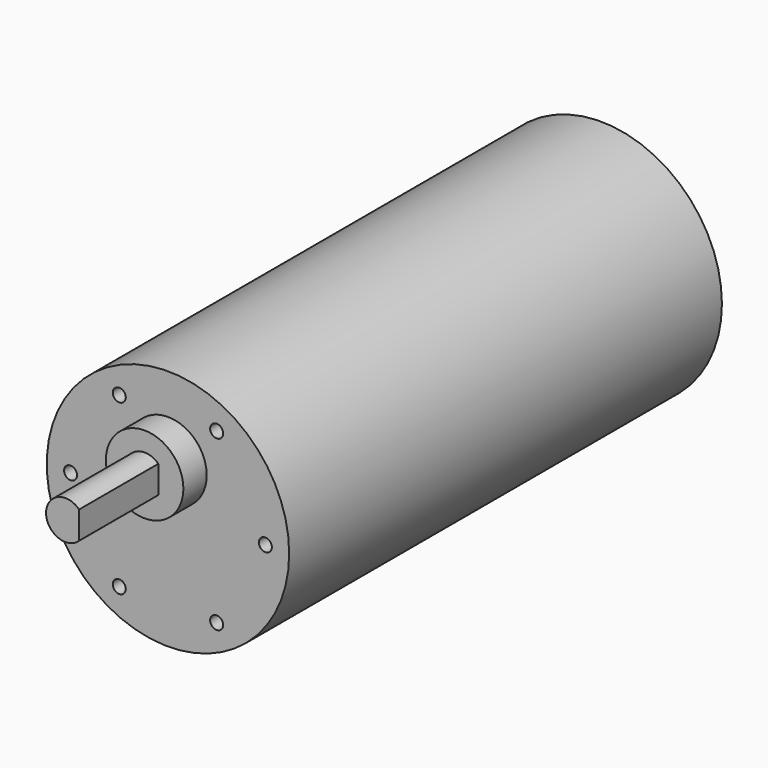
from build123d import *

# Parameters (mm, degrees)
F0_R     = 18.669
F0_R_2   = 14.9987
F0_R_3   = 5.969
F1_DEPTH = 83.312
F2_D     = 2
F2_DEPTH = 12.7
F2_TIP   = 0.600860619
F3_DEPTH = 4.4958
F5_DEPTH = 15.24


with BuildPart() as f1:
    # F0 (on Front) → F1 (new body)
    with BuildSketch(Plane.XZ):
        Circle(F0_R)
        Circle(F0_R_2, mode=Mode.SUBTRACT)
        Circle(F0_R_2)
        with Locations((0, 6.5024)):
            Circle(F0_R_3, mode=Mode.SUBTRACT)
        with Locations((0, 6.5024)):
            Circle(F0_R_3)
    extrude(amount=-F1_DEPTH)

    # F2
    with Locations(Plane.XZ):
        with Locations((-7.49935, 12.9892552237), (7.49935, 12.9892552237), (14.9987, 0), (7.49935, -12.9892552237), (-7.49935, -12.9892552237), (-14.9987, 0)):
            Hole(F2_D / 2, depth=F2_DEPTH)
            with Locations((0, 0, -(F2_DEPTH + F2_TIP / 2))):  # 118° drill point
                Cone(0, F2_D / 2, F2_TIP, mode=Mode.SUBTRACT)


with BuildPart() as f3:
    # F0 (on Front) → F3 (new body)
    with BuildSketch(Plane.XZ):
        with Locations((0, 6.5024)):
            Circle(F0_R_3)
    extrude(amount=F3_DEPTH)

    # F4 (on face) → F5 (join)
    with BuildSketch(Plane.XZ.offset(4.4958)):
        with BuildLine():
            Line((2.1031773316, 4.3848813196), (2.1031773316, 8.6199186804))
            ThreePointArc((2.1031773316, 8.6199186804), (-2.9845, 6.5024), (2.1031773316, 4.3848813196))
        make_face()
    extrude(amount=F5_DEPTH)


solid = Compound([f1.part, f3.part])
